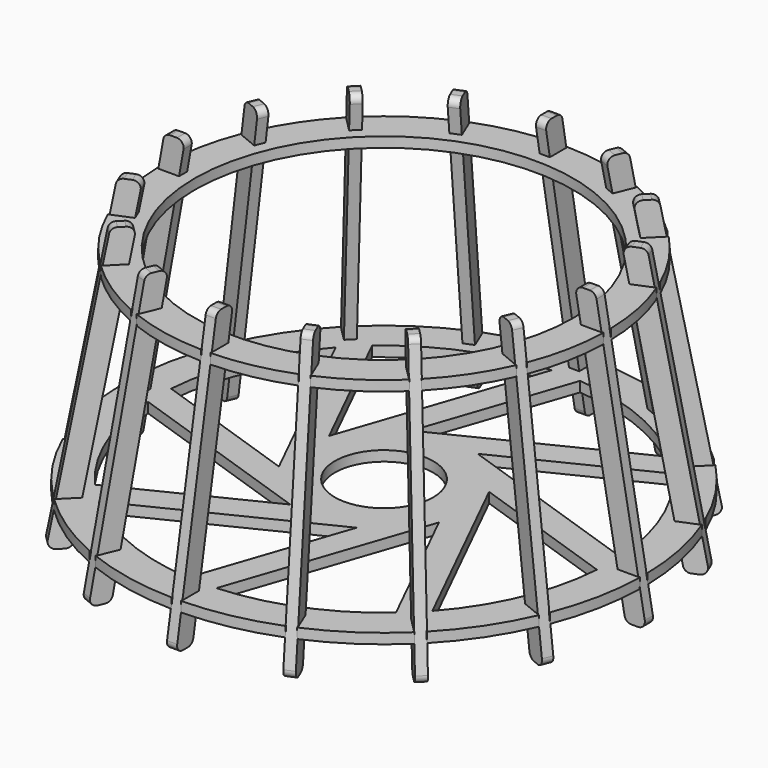
from build123d import *

# Parameters (mm, degrees)
F1_R     = 55.833
F2_DEPTH = 3
F3_R     = 14.5
F4_DEPTH = 3
F6_DEPTH = 1.5
F7_COUNT = 16


with BuildPart() as f2:
    # F1 (on Top) → F2 (new body)
    with BuildSketch(Plane.XY):
        with BuildLine():
            Line((-62.818112, -1.4), (-65.818112, -1.4))
            ThreePointArc((-65.818112, -1.4), (-64.568037, -12.843381), (-61.343764, -23.89407))
            Line((-61.343764, -23.89407), (-58.572125, -22.746019))
            Line((-58.572125, -22.746019), (-57.500611, -25.332882))
            Line((-57.500611, -25.332882), (-60.27225, -26.480932))
            ThreePointArc((-60.27225, -26.480932), (-54.738139, -36.574855), (-47.530383, -45.550484))
            Line((-47.530383, -45.550484), (-45.409063, -43.429164))
            Line((-45.409063, -43.429164), (-43.429164, -45.409063))
            Line((-43.429164, -45.409063), (-45.550484, -47.530383))
            ThreePointArc((-45.550484, -47.530383), (-36.574855, -54.738139), (-26.480932, -60.27225))
            Line((-26.480932, -60.27225), (-25.332882, -57.500611))
            Line((-25.332882, -57.500611), (-22.746019, -58.572125))
            Line((-22.746019, -58.572125), (-23.89407, -61.343764))
            ThreePointArc((-23.89407, -61.343764), (-12.843381, -64.568037), (-1.4, -65.818112))
            Line((-1.4, -65.818112), (-1.4, -62.818112))
            Line((-1.4, -62.818112), (1.4, -62.818112))
            Line((1.4, -62.818112), (1.4, -65.818112))
            ThreePointArc((1.4, -65.818112), (12.843381, -64.568037), (23.89407, -61.343764))
            Line((23.89407, -61.343764), (22.746019, -58.572125))
            Line((22.746019, -58.572125), (25.332882, -57.500611))
            Line((25.332882, -57.500611), (26.480932, -60.27225))
            ThreePointArc((26.480932, -60.27225), (36.574855, -54.738139), (45.550484, -47.530383))
            Line((45.550484, -47.530383), (43.429164, -45.409063))
            Line((43.429164, -45.409063), (45.409063, -43.429164))
            Line((45.409063, -43.429164), (47.530383, -45.550484))
            ThreePointArc((47.530383, -45.550484), (54.738139, -36.574855), (60.27225, -26.480932))
            Line((60.27225, -26.480932), (57.500611, -25.332882))
            Line((57.500611, -25.332882), (58.572125, -22.746019))
            Line((58.572125, -22.746019), (61.343764, -23.89407))
            ThreePointArc((61.343764, -23.89407), (64.568037, -12.843381), (65.818112, -1.4))
            Line((65.818112, -1.4), (62.818112, -1.4))
            Line((62.818112, -1.4), (62.818112, 1.4))
            Line((62.818112, 1.4), (65.818112, 1.4))
            ThreePointArc((65.818112, 1.4), (64.568037, 12.843381), (61.343764, 23.89407))
            Line((61.343764, 23.89407), (58.572125, 22.746019))
            Line((58.572125, 22.746019), (57.500611, 25.332882))
            Line((57.500611, 25.332882), (60.27225, 26.480932))
            ThreePointArc((60.27225, 26.480932), (54.738139, 36.574855), (47.530383, 45.550484))
            Line((47.530383, 45.550484), (45.409063, 43.429164))
            Line((45.409063, 43.429164), (43.429164, 45.409063))
            Line((43.429164, 45.409063), (45.550484, 47.530383))
            ThreePointArc((45.550484, 47.530383), (36.574855, 54.738139), (26.480932, 60.27225))
            Line((26.480932, 60.27225), (25.332882, 57.500611))
            Line((25.332882, 57.500611), (22.746019, 58.572125))
            Line((22.746019, 58.572125), (23.89407, 61.343764))
            ThreePointArc((23.89407, 61.343764), (12.843381, 64.568037), (1.4, 65.818112))
            Line((1.4, 65.818112), (1.4, 62.818112))
            Line((1.4, 62.818112), (-1.4, 62.818112))
            Line((-1.4, 62.818112), (-1.4, 65.818112))
            ThreePointArc((-1.4, 65.818112), (-12.843381, 64.568037), (-23.89407, 61.343764))
            Line((-23.89407, 61.343764), (-22.746019, 58.572125))
            Line((-22.746019, 58.572125), (-25.332882, 57.500611))
            Line((-25.332882, 57.500611), (-26.480932, 60.27225))
            ThreePointArc((-26.480932, 60.27225), (-36.574855, 54.738139), (-45.550484, 47.530383))
            Line((-45.550484, 47.530383), (-43.429164, 45.409063))
            Line((-43.429164, 45.409063), (-45.409063, 43.429164))
            Line((-45.409063, 43.429164), (-47.530383, 45.550484))
            ThreePointArc((-47.530383, 45.550484), (-54.738139, 36.574855), (-60.27225, 26.480932))
            Line((-60.27225, 26.480932), (-57.500611, 25.332882))
            Line((-57.500611, 25.332882), (-58.572125, 22.746019))
            Line((-58.572125, 22.746019), (-61.343764, 23.89407))
            ThreePointArc((-61.343764, 23.89407), (-64.568037, 12.843381), (-65.818112, 1.4))
            Line((-65.818112, 1.4), (-62.818112, 1.4))
            Line((-62.818112, 1.4), (-62.818112, -1.4))
        make_face()
        Circle(F1_R, mode=Mode.SUBTRACT)
    extrude(amount=F2_DEPTH)


with BuildPart() as f4:
    # F3 (on offset) → F4 (new body)
    with BuildSketch(Plane.XY.offset(-60)):
        with BuildLine():
            Line((-73.654216, -1.4), (-76.654216, -1.4))
            ThreePointArc((-76.654216, -1.4), (-75.193865, -14.95699), (-71.355018, -28.040867))
            Line((-71.355018, -28.040867), (-68.58338, -26.892817))
            Line((-68.58338, -26.892817), (-67.511866, -29.47968))
            Line((-67.511866, -29.47968), (-70.283505, -30.62773))
            ThreePointArc((-70.283505, -30.62773), (-63.746281, -42.593903), (-55.192666, -53.212767))
            Line((-55.192666, -53.212767), (-53.071345, -51.091446))
            Line((-53.071345, -51.091446), (-51.091446, -53.071345))
            Line((-51.091446, -53.071345), (-53.212767, -55.192666))
            ThreePointArc((-53.212767, -55.192666), (-42.593903, -63.746281), (-30.62773, -70.283505))
            Line((-30.62773, -70.283505), (-29.47968, -67.511866))
            Line((-29.47968, -67.511866), (-26.892817, -68.58338))
            Line((-26.892817, -68.58338), (-28.040867, -71.355018))
            ThreePointArc((-28.040867, -71.355018), (-14.95699, -75.193865), (-1.4, -76.654216))
            Line((-1.4, -76.654216), (-1.4, -73.654216))
            Line((-1.4, -73.654216), (1.4, -73.654216))
            Line((1.4, -73.654216), (1.4, -76.654216))
            ThreePointArc((1.4, -76.654216), (14.95699, -75.193865), (28.040867, -71.355018))
            Line((28.040867, -71.355018), (26.892817, -68.58338))
            Line((26.892817, -68.58338), (29.47968, -67.511866))
            Line((29.47968, -67.511866), (30.62773, -70.283505))
            ThreePointArc((30.62773, -70.283505), (42.593903, -63.746281), (53.212767, -55.192666))
            Line((53.212767, -55.192666), (51.091446, -53.071345))
            Line((51.091446, -53.071345), (53.071345, -51.091446))
            Line((53.071345, -51.091446), (55.192666, -53.212767))
            ThreePointArc((55.192666, -53.212767), (63.746281, -42.593903), (70.283505, -30.62773))
            Line((70.283505, -30.62773), (67.511866, -29.47968))
            Line((67.511866, -29.47968), (68.58338, -26.892817))
            Line((68.58338, -26.892817), (71.355018, -28.040867))
            ThreePointArc((71.355018, -28.040867), (75.193865, -14.95699), (76.654216, -1.4))
            Line((76.654216, -1.4), (73.654216, -1.4))
            Line((73.654216, -1.4), (73.654216, 1.4))
            Line((73.654216, 1.4), (76.654216, 1.4))
            ThreePointArc((76.654216, 1.4), (75.193865, 14.95699), (71.355018, 28.040867))
            Line((71.355018, 28.040867), (68.58338, 26.892817))
            Line((68.58338, 26.892817), (67.511866, 29.47968))
            Line((67.511866, 29.47968), (70.283505, 30.62773))
            ThreePointArc((70.283505, 30.62773), (63.746281, 42.593903), (55.192666, 53.212767))
            Line((55.192666, 53.212767), (53.071345, 51.091446))
            Line((53.071345, 51.091446), (51.091446, 53.071345))
            Line((51.091446, 53.071345), (53.212767, 55.192666))
            ThreePointArc((53.212767, 55.192666), (42.593903, 63.746281), (30.62773, 70.283505))
            Line((30.62773, 70.283505), (29.47968, 67.511866))
            Line((29.47968, 67.511866), (26.892817, 68.58338))
            Line((26.892817, 68.58338), (28.040867, 71.355018))
            ThreePointArc((28.040867, 71.355018), (14.95699, 75.193865), (1.4, 76.654216))
            Line((1.4, 76.654216), (1.4, 73.654216))
            Line((1.4, 73.654216), (-1.4, 73.654216))
            Line((-1.4, 73.654216), (-1.4, 76.654216))
            ThreePointArc((-1.4, 76.654216), (-14.95699, 75.193865), (-28.040867, 71.355018))
            Line((-28.040867, 71.355018), (-26.892817, 68.58338))
            Line((-26.892817, 68.58338), (-29.47968, 67.511866))
            Line((-29.47968, 67.511866), (-30.62773, 70.283505))
            ThreePointArc((-30.62773, 70.283505), (-42.593903, 63.746281), (-53.212767, 55.192666))
            Line((-53.212767, 55.192666), (-51.091446, 53.071345))
            Line((-51.091446, 53.071345), (-53.071345, 51.091446))
            Line((-53.071345, 51.091446), (-55.192666, 53.212767))
            ThreePointArc((-55.192666, 53.212767), (-63.746281, 42.593903), (-70.283505, 30.62773))
            Line((-70.283505, 30.62773), (-67.511866, 29.47968))
            Line((-67.511866, 29.47968), (-68.58338, 26.892817))
            Line((-68.58338, 26.892817), (-71.355018, 28.040867))
            ThreePointArc((-71.355018, 28.040867), (-75.193865, 14.95699), (-76.654216, 1.4))
            Line((-76.654216, 1.4), (-73.654216, 1.4))
            Line((-73.654216, 1.4), (-73.654216, -1.4))
        make_face()
        with BuildLine():
            ThreePointArc((-4.622135, -66.506577), (-25.888401, -61.435166), (-44.370553, -49.756838))
            Line((-44.370553, -49.756838), (10.198036, -22.845536))
            Line((10.198036, -22.845536), (-4.622135, -66.506577))
        make_face(mode=Mode.SUBTRACT)
        with BuildLine():
            ThreePointArc((-50.295595, -43.758908), (-61.747086, -25.135358), (-66.558116, -3.808679))
            Line((-66.558116, -3.808679), (-8.943133, -23.365334))
            Line((-8.943133, -23.365334), (-50.295595, -43.758908))
        make_face(mode=Mode.SUBTRACT)
        with BuildLine():
            ThreePointArc((43.758908, -50.295595), (25.135358, -61.747086), (3.808679, -66.558116))
            Line((3.808679, -66.558116), (23.365334, -8.943133))
            Line((23.365334, -8.943133), (43.758908, -50.295595))
        make_face(mode=Mode.SUBTRACT)
        with BuildLine():
            ThreePointArc((66.506577, -4.622135), (61.435166, -25.888401), (49.756838, -44.370553))
            Line((49.756838, -44.370553), (22.845536, 10.198036))
            Line((22.845536, 10.198036), (66.506577, -4.622135))
        make_face(mode=Mode.SUBTRACT)
        with BuildLine():
            ThreePointArc((-66.506577, 4.622135), (-61.435166, 25.888401), (-49.756838, 44.370553))
            Line((-49.756838, 44.370553), (-22.845536, -10.198036))
            Line((-22.845536, -10.198036), (-66.506577, 4.622135))
        make_face(mode=Mode.SUBTRACT)
        with BuildLine():
            ThreePointArc((-43.758908, 50.295595), (-25.135358, 61.747086), (-3.808679, 66.558116))
            Line((-3.808679, 66.558116), (-23.365334, 8.943133))
            Line((-23.365334, 8.943133), (-43.758908, 50.295595))
        make_face(mode=Mode.SUBTRACT)
        Circle(F3_R, mode=Mode.SUBTRACT)
        with BuildLine():
            Line((8.943133, 23.365334), (50.295595, 43.758908))
            ThreePointArc((50.295595, 43.758908), (61.747086, 25.135358), (66.558116, 3.808679))
            Line((66.558116, 3.808679), (8.943133, 23.365334))
        make_face(mode=Mode.SUBTRACT)
        with BuildLine():
            ThreePointArc((4.622135, 66.506577), (25.888401, 61.435166), (44.370553, 49.756838))
            Line((44.370553, 49.756838), (-10.198036, 22.845536))
            Line((-10.198036, 22.845536), (4.622135, 66.506577))
        make_face(mode=Mode.SUBTRACT)
    extrude(amount=F4_DEPTH)


with BuildPart() as f6:
    # F5 (on Front) → F6 (new body, symmetric)
    with BuildSketch(Plane.XZ):
        with BuildLine():
            Line((-59.315327, 2.8), (-57.935046, 10.444635))
            ThreePointArc((-57.935046, 10.444635), (-58.368502, 12.082433), (-59.903222, 12.8))
            Line((-59.903222, 12.8), (-61.935561, 12.8))
            ThreePointArc((-61.935561, 12.8), (-63.217994, 12.33472), (-63.903736, 11.155365))
            Line((-63.903736, 11.155365), (-78.131514, -67.644635))
            ThreePointArc((-78.131514, -67.644635), (-77.698058, -69.282433), (-76.163339, -70))
            Line((-76.163339, -70), (-74.131, -70))
            ThreePointArc((-74.131, -70), (-72.848566, -69.53472), (-72.162824, -68.355365))
            Line((-72.162824, -68.355365), (-70.654216, -60))
            Line((-70.654216, -60), (-73.654216, -60))
            Line((-73.654216, -60), (-73.654216, -57.2))
            Line((-73.654216, -57.2), (-70.148661, -57.2))
            Line((-70.148661, -57.2), (-59.820883, 0))
            Line((-59.820883, 0), (-62.820883, 0))
            Line((-62.820883, 0), (-62.820883, 2.8))
            Line((-62.820883, 2.8), (-59.315327, 2.8))
        make_face()
    extrude(amount=F6_DEPTH, both=True)


with BuildPart() as f7_1:
    # F7: instance of F6
    add(f6.part.rotate(Axis((0, 0, 0), (0, 0, 1)), 1 * 360 / F7_COUNT))


with BuildPart() as f7_2:
    # F7: instance of F6
    add(f6.part.rotate(Axis((0, 0, 0), (0, 0, 1)), 2 * 360 / F7_COUNT))


with BuildPart() as f7_3:
    # F7: instance of F6
    add(f6.part.rotate(Axis((0, 0, 0), (0, 0, 1)), 3 * 360 / F7_COUNT))


with BuildPart() as f7_4:
    # F7: instance of F6
    add(f6.part.rotate(Axis((0, 0, 0), (0, 0, 1)), 4 * 360 / F7_COUNT))


with BuildPart() as f7_5:
    # F7: instance of F6
    add(f6.part.rotate(Axis((0, 0, 0), (0, 0, 1)), 5 * 360 / F7_COUNT))


with BuildPart() as f7_6:
    # F7: instance of F6
    add(f6.part.rotate(Axis((0, 0, 0), (0, 0, 1)), 6 * 360 / F7_COUNT))


with BuildPart() as f7_7:
    # F7: instance of F6
    add(f6.part.rotate(Axis((0, 0, 0), (0, 0, 1)), 7 * 360 / F7_COUNT))


with BuildPart() as f7_8:
    # F7: instance of F6
    add(f6.part.rotate(Axis((0, 0, 0), (0, 0, 1)), 8 * 360 / F7_COUNT))


with BuildPart() as f7_9:
    # F7: instance of F6
    add(f6.part.rotate(Axis((0, 0, 0), (0, 0, 1)), 9 * 360 / F7_COUNT))


with BuildPart() as f7_10:
    # F7: instance of F6
    add(f6.part.rotate(Axis((0, 0, 0), (0, 0, 1)), 10 * 360 / F7_COUNT))


with BuildPart() as f7_11:
    # F7: instance of F6
    add(f6.part.rotate(Axis((0, 0, 0), (0, 0, 1)), 11 * 360 / F7_COUNT))


with BuildPart() as f7_12:
    # F7: instance of F6
    add(f6.part.rotate(Axis((0, 0, 0), (0, 0, 1)), 12 * 360 / F7_COUNT))


with BuildPart() as f7_13:
    # F7: instance of F6
    add(f6.part.rotate(Axis((0, 0, 0), (0, 0, 1)), 13 * 360 / F7_COUNT))


with BuildPart() as f7_14:
    # F7: instance of F6
    add(f6.part.rotate(Axis((0, 0, 0), (0, 0, 1)), 14 * 360 / F7_COUNT))


with BuildPart() as f7_15:
    # F7: instance of F6
    add(f6.part.rotate(Axis((0, 0, 0), (0, 0, 1)), 15 * 360 / F7_COUNT))


solid = Compound([f2.part, f4.part, f6.part, f7_1.part, f7_2.part, f7_3.part, f7_4.part, f7_5.part, f7_6.part, f7_7.part, f7_8.part, f7_9.part, f7_10.part, f7_11.part, f7_12.part, f7_13.part, f7_14.part, f7_15.part])
